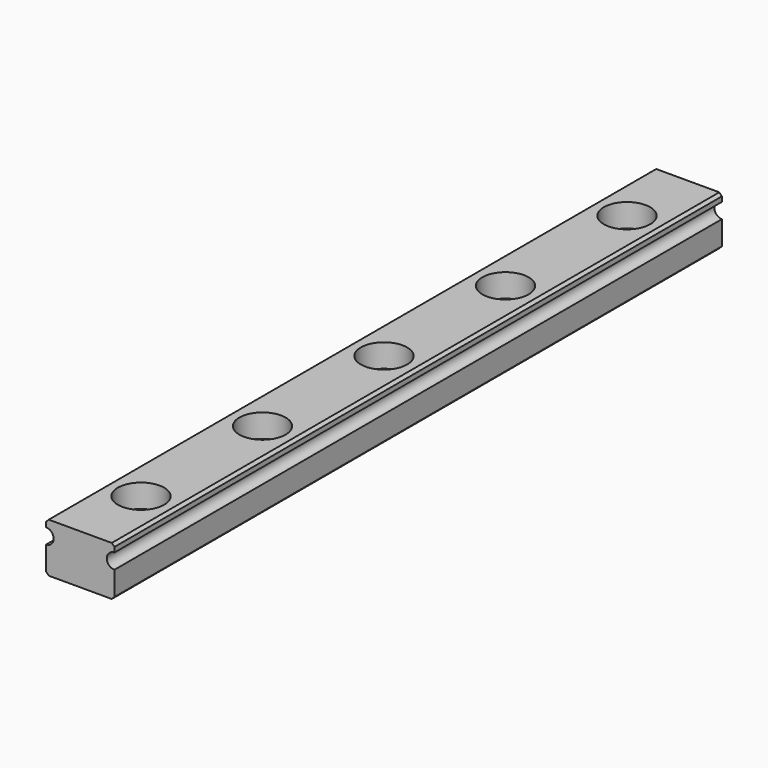
from build123d import *

# Parameters (mm, degrees)
PAD_DEPTH           = 50
CHAMFER003_SIZE     = 0.35
HOLE001_D           = 3.7
HOLE001_CBORE_D     = 6.1
HOLE001_CBORE_DEPTH = 3.06


with BuildPart() as part:
    # Sketch → Pad (new body, symmetric)
    with BuildSketch(Plane.XZ):
        with BuildLine():
            Line((-4.5, 6.5), (4.5, 6.5))
            Line((4.5, 6.5), (4.5, 5.5))
            ThreePointArc((4.5, 5.5), (3.5, 4.5), (4.5, 3.5))
            Line((4.5, 3.5), (4.5, 0))
            Line((4.5, 0), (-4.5, 0))
            Line((-4.5, 0), (-4.5, 3.5))
            ThreePointArc((-4.5, 3.5), (-3.5, 4.5), (-4.5, 5.5))
            Line((-4.5, 5.5), (-4.5, 6.5))
        make_face()
    extrude(amount=PAD_DEPTH, both=True)

    # Chamfer003
    chamfer003_edges = [part.edges().sort_by_distance(p)[0] for p in [
        (4.5, 0, 6.5),
        (4.5, 0, 0),
        (-4.5, 0, 0),
        (-4.5, 0, 6.5),
    ]]
    chamfer(chamfer003_edges, length=CHAMFER003_SIZE)

    # Hole001 (through all)
    with Locations(Plane(origin=(0, 0, 6.5), x_dir=(0, 1, 0), z_dir=(0, 0, 1))):
        with Locations((0, 0), (-20, 0), (-40, 0), (-60, 0), (-80, 0), (-100, 0), (-120, 0), (-140, 0), (-160, 0), (-180, 0), (20, 0), (40, 0), (60, 0), (80, 0), (100, 0), (120, 0), (140, 0), (160, 0), (180, 0)):
            CounterBoreHole(HOLE001_D / 2, HOLE001_CBORE_D / 2, HOLE001_CBORE_DEPTH)


solid = part.part
